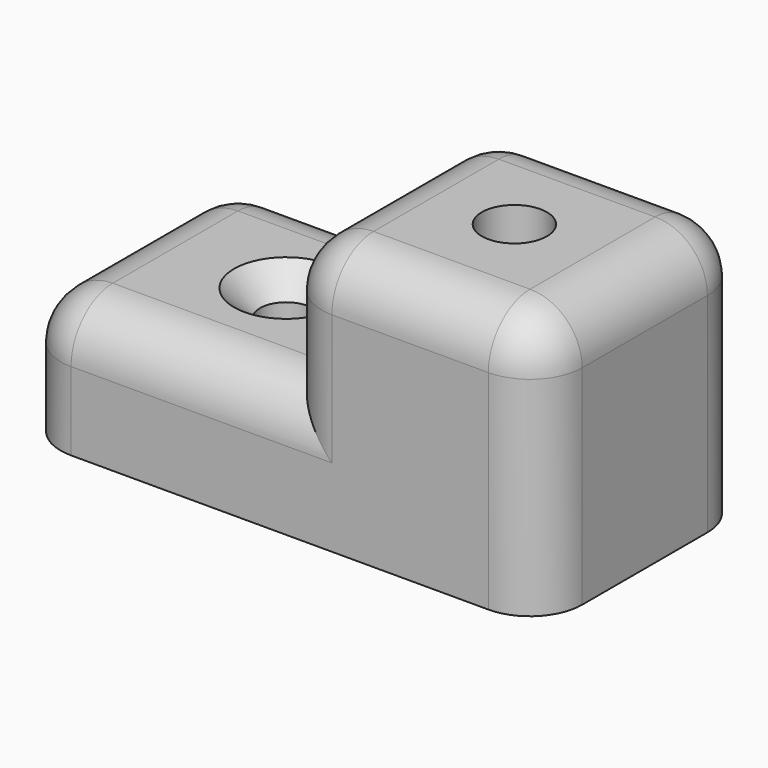
from build123d import *

# Parameters (mm, degrees)
F0_R     = 2.5
F1_DEPTH = 10
F2_W     = 20
F2_H     = 20
F2_R     = 2.5
F3_DEPTH = 10
F4_R     = 4
F5_SIZE  = 2


with BuildPart() as f1:
    # F0 (on Top) → F1 (new body)
    with BuildSketch(Plane.XY):
        Polygon((10, 10), (-30, 10), (-30, 0), (-30, -10), (10, -10), align=None)
        with BuildLine():
            ThreePointArc((-15.5, 0), (-17.5, -2), (-19.5, 0))
            ThreePointArc((-19.5, 0), (-17.5, 2), (-15.5, 0))
        make_face(mode=Mode.SUBTRACT)
        Circle(F0_R, mode=Mode.SUBTRACT)
    extrude(amount=F1_DEPTH)

    # F2 (on face) → F3 (join)
    with BuildSketch(Plane.XY.offset(10)):
        Rectangle(F2_W, F2_H)
        Circle(F2_R, mode=Mode.SUBTRACT)
    extrude(amount=F3_DEPTH)

    # F4
    f4_edges = [f1.edges().sort_by_distance(p)[0] for p in [
        (-30, 0, 10),
        (-20, 10, 10),
        (-20, -10, 10),
        (-10, 0, 20),
        (0, 10, 20),
        (10, 0, 20),
        (0, -10, 20),
        (-10, -10, 15),
        (-10, 10, 15),
        (10, 10, 10),
        (10, -10, 10),
        (-30, 10, 5),
        (-30, -10, 5),
    ]]
    fillet(f4_edges, radius=F4_R)

    # F5
    f5_edges = [f1.edges().sort_by_distance(p)[0] for p in [
        (-19.5, 0, 10),
    ]]
    chamfer(f5_edges, length=F5_SIZE)


solid = f1.part
